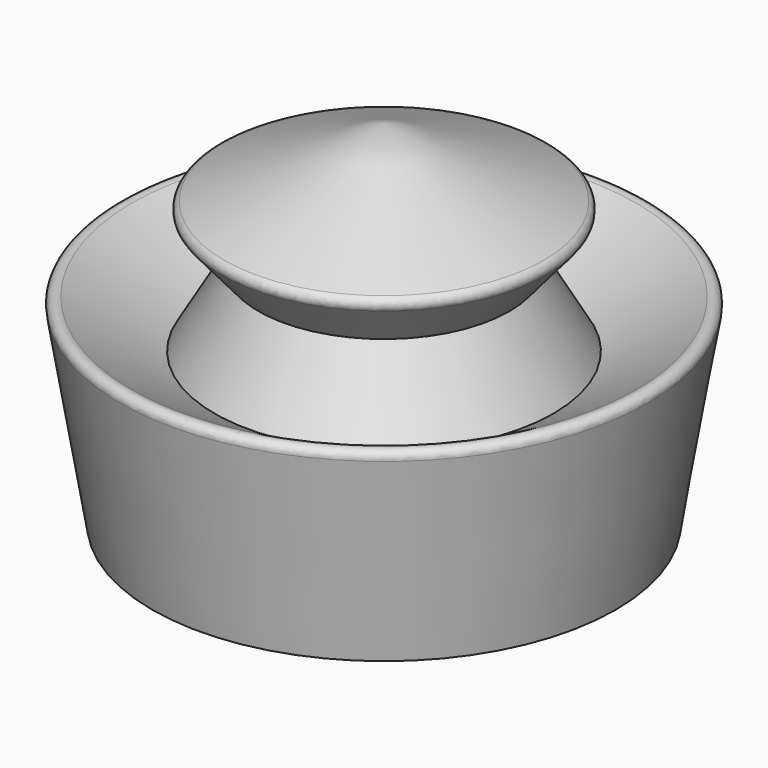
from build123d import *

# Parameters (mm, degrees)
F2_R = 1.489474


with BuildPart() as f1:
    # F0 (on Front) → F1 (revolve)
    with BuildSketch(Plane.XZ):
        Polygon((0, 68.326987), (0, 0), (15.814129, 3.826638), (15.814129, 22.512592), (44.918541, 0), (51.649282, 40.418446), (32.829016, 29.524632), (24.321577, 44.222172), (32.829016, 54.289982), align=None)
    revolve(axis=Axis((0, 0, 34.163494), (0, 0, 1)))

    # F2
    f2_edges = [f1.edges().sort_by_distance(p)[0] for p in [
        (-51.649282, 0, 40.418446),
        (-32.829016, 0, 54.289982),
    ]]
    fillet(f2_edges, radius=F2_R)


solid = f1.part
